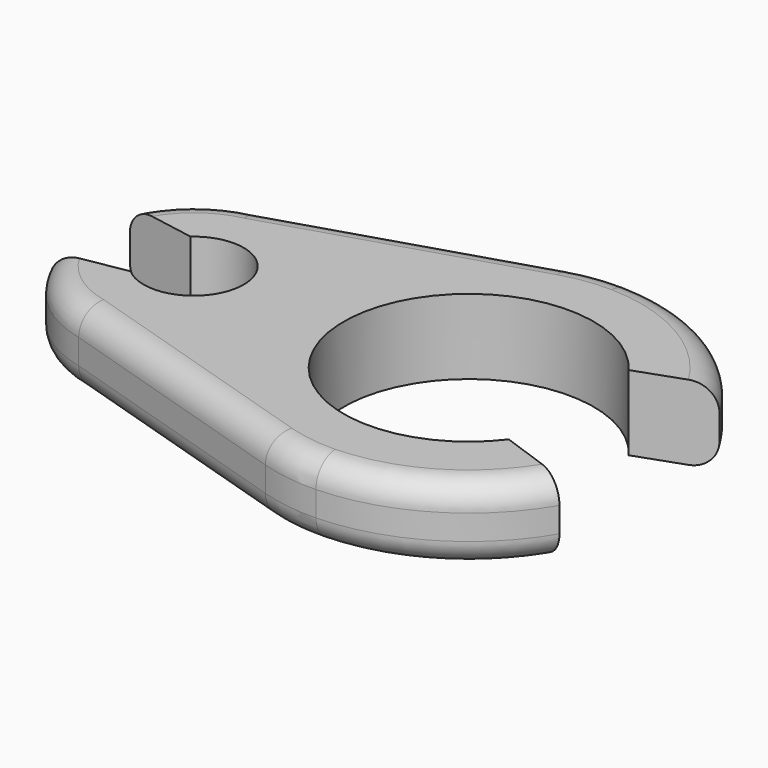
from build123d import *

# Parameters (mm, degrees)
PAD_DEPTH   = 3
FILLET_R    = 7
FILLET001_R = 1


with BuildPart() as part:
    # Sketch → Pad (new body)
    with BuildSketch(Plane.XY):
        with BuildLine():
            ThreePointArc((-6.322876, -1.5), (-3, 0), (-6.322876, 1.5))
            Line((-9.153312, 2), (-6.322876, 1.5))
            ThreePointArc((-6, 4.5), (-7.863853, 3.612249), (-9.153312, 2))
            Line((-6, 4.5), (4.502479, 7.770769))
            ThreePointArc((12.828427, 4), (9.264861, 7.20889), (4.502479, 7.770769))
            Line((10, 3), (12.828427, 4))
            ThreePointArc((10, 3), (1, 0), (10, -3))
            Line((10, -3), (12.828427, -4))
            ThreePointArc((4.502479, -7.770769), (9.264861, -7.20889), (12.828427, -4))
            Line((-6, -4.5), (4.502479, -7.770769))
            ThreePointArc((-9.153312, -2), (-7.863853, -3.612249), (-6, -4.5))
            Line((-6.322876, -1.5), (-9.153312, -2))
        make_face()
    extrude(amount=PAD_DEPTH)

    # Fillet
    fillet_edges = [part.edges().sort_by_distance(p)[0] for p in [
        (4.502479, -7.770769, 1.5),
        (4.502479, 7.770769, 1.5),
    ]]
    fillet(fillet_edges, radius=FILLET_R)

    # Fillet001
    fillet001_edges = [part.edges().sort_by_distance(p)[0] for p in [
        (-1.028075, -6.048398, 3),
        (-1.028075, 6.048398, 3),
        (-1.028075, -6.048398, 0),
        (-1.028075, 6.048398, 0),
    ]]
    fillet(fillet001_edges, radius=FILLET001_R)


solid = part.part
